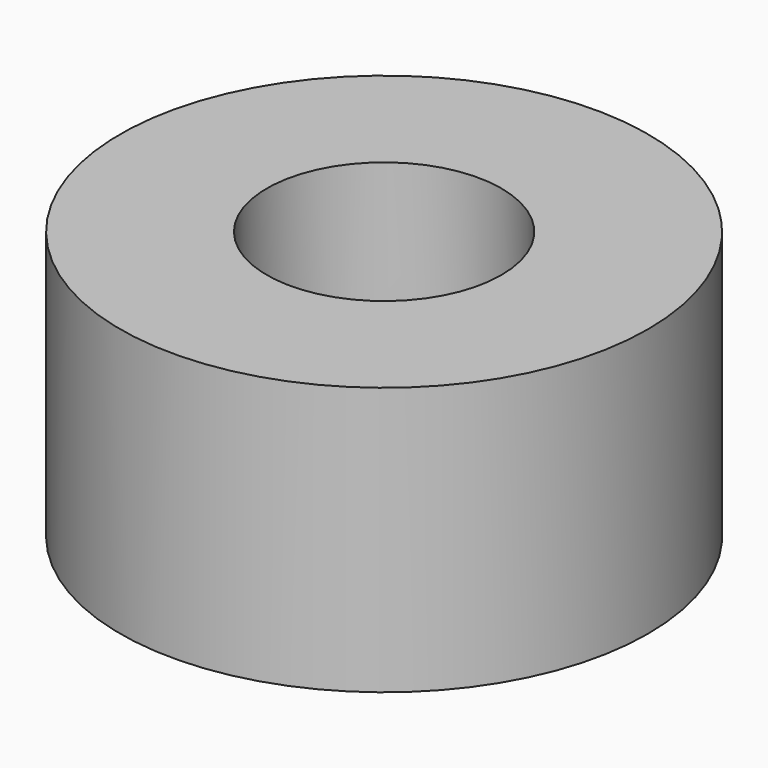
from build123d import *

# Parameters (mm, degrees)
SKETCH_R        = 36.576
PAD_DEPTH       = 37.1475
SKETCH001_R     = 16.256
POCKET_DEPTH    = 19.9771
SKETCH002_R     = 16.256
POCKET001_DEPTH = 14.8463
PAD001_DEPTH    = 10.1219
SKETCH004_R     = 1.74625
POCKET002_DEPTH = 32.4241
SKETCH005_R     = 4.7879
POCKET003_DEPTH = 2.6924
SKETCH006_R     = 2.425304
POCKET004_DEPTH = 29.7317
SKETCH007_R     = 4.7879
POCKET005_DEPTH = 3.1242


with BuildPart() as part:
    # Sketch → Pad (new body)
    with BuildSketch(Plane.XY):
        Circle(SKETCH_R)
    extrude(amount=PAD_DEPTH)

    # Sketch001 (on Face3 of Pad) → Pocket (cut)
    with BuildSketch(Plane.XY.offset(37.1475)):
        Circle(SKETCH001_R)
    extrude(amount=-POCKET_DEPTH, mode=Mode.SUBTRACT)

    # Sketch002 (on Face2 of Pocket) → Pocket001 (cut)
    with BuildSketch(Plane(origin=(0, 0, 0), x_dir=(1, 0, 0), z_dir=(0, 0, -1))):
        Circle(SKETCH002_R)
    extrude(amount=-POCKET001_DEPTH, mode=Mode.SUBTRACT)

    # Sketch003 (on Face6 of Pocket001) → Pad001 (new body)
    with BuildSketch(Plane(origin=(0, 0, 14.8463), x_dir=(1, 0, 0), z_dir=(0, 0, -1))):
        with BuildLine():
            ThreePointArc((-5.67159, -3.48615), (0, -6.65734), (5.67159, -3.48615))
            Line((5.67159, -3.48615), (7.95655, -3.48615))
            ThreePointArc((7.95655, -3.48615), (11.4427, 0), (7.95655, 3.48615))
            Line((5.67159, 3.48615), (7.95655, 3.48615))
            ThreePointArc((5.67159, 3.48615), (0, 6.65734), (-5.67159, 3.48615))
            Line((-7.95655, 3.48615), (-5.67159, 3.48615))
            ThreePointArc((-7.95655, 3.48615), (-11.4427, 0), (-7.95655, -3.48615))
            Line((-7.95655, -3.48615), (-5.67159, -3.48615))
        make_face()
    extrude(amount=PAD001_DEPTH)

    # Sketch004 (on Face16 of Pad001) → Pocket002 (cut, through all)
    with BuildSketch(Plane(origin=(0, 0, 4.7244), x_dir=(1, 0, 0), z_dir=(0, 0, -1))):
        with Locations((7.95782, 0)):
            Circle(SKETCH004_R)
        with Locations((-7.95782, 0)):
            Circle(SKETCH004_R)
    extrude(amount=-POCKET002_DEPTH, mode=Mode.SUBTRACT)

    # Sketch005 (on Face18 of Pocket002) → Pocket003 (cut)
    with BuildSketch(Plane(origin=(0, 0, 4.7244), x_dir=(1, 0, 0), z_dir=(0, 0, -1))):
        Circle(SKETCH005_R)
    extrude(amount=-POCKET003_DEPTH, mode=Mode.SUBTRACT)

    # Sketch006 (on Face20 of Pocket003) → Pocket004 (cut, through all)
    with BuildSketch(Plane(origin=(0, 0, 7.4168), x_dir=(1, 0, 0), z_dir=(0, 0, -1))):
        Circle(SKETCH006_R)
    extrude(amount=-POCKET004_DEPTH, mode=Mode.SUBTRACT)

    # Sketch007 (on Face7 of Pocket004) → Pocket005 (cut)
    with BuildSketch(Plane.XY.offset(17.1704)):
        Circle(SKETCH007_R)
    extrude(amount=-POCKET005_DEPTH, mode=Mode.SUBTRACT)


solid = part.part
